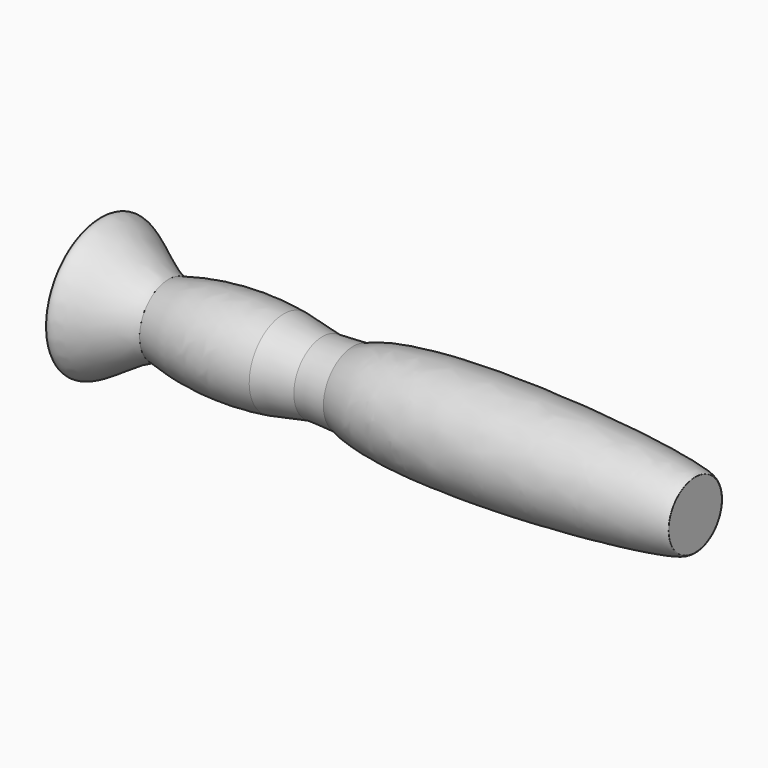
from build123d import *


with BuildPart() as f1:
    # F0 (on Front) → F1 (revolve)
    with BuildSketch(Plane.XZ):
        with BuildLine():
            Line((0, 0), (136, 0))
            Line((136, 0), (136, 7.5668375939))
            add(Edge.make_bspline(
                [(57.932120328, 8.4838647993), (74.0178674459, 15.4621964321), (136, 9.8442165181), (136, 7.5668375939)],
                knots=[0, 0, 0, 0, 78.073265433, 78.073265433, 78.073265433, 78.073265433], degree=3))
            Line((57.932120328, 8.4838647993), (50.9394065873, 8.1645615891))
            Line((50.9394065873, 8.1645615891), (42.0975312591, 9.8442165181))
            add(Edge.make_bspline(
                [(15.7956126534, 8.215207171), (26.520403102, 11.1532055438), (36.1618974445, 10.6971871138), (42.0975312591, 9.8442165181)],
                knots=[0, 0, 0, 0, 26.3523166684, 26.3523166684, 26.3523166684, 26.3523166684], degree=3))
            add(Edge.make_bspline(
                [(0, 14.5), (0, 19.5479989052), (11.198640801, 8.215207171), (15.7956126534, 8.215207171)],
                knots=[0, 0, 0, 0, 17, 17, 17, 17], degree=3))
            Line((0, 14.5), (0, 0))
        make_face()
    revolve(axis=Axis((68, 0, 0), (-1, 0, 0)))


solid = f1.part
